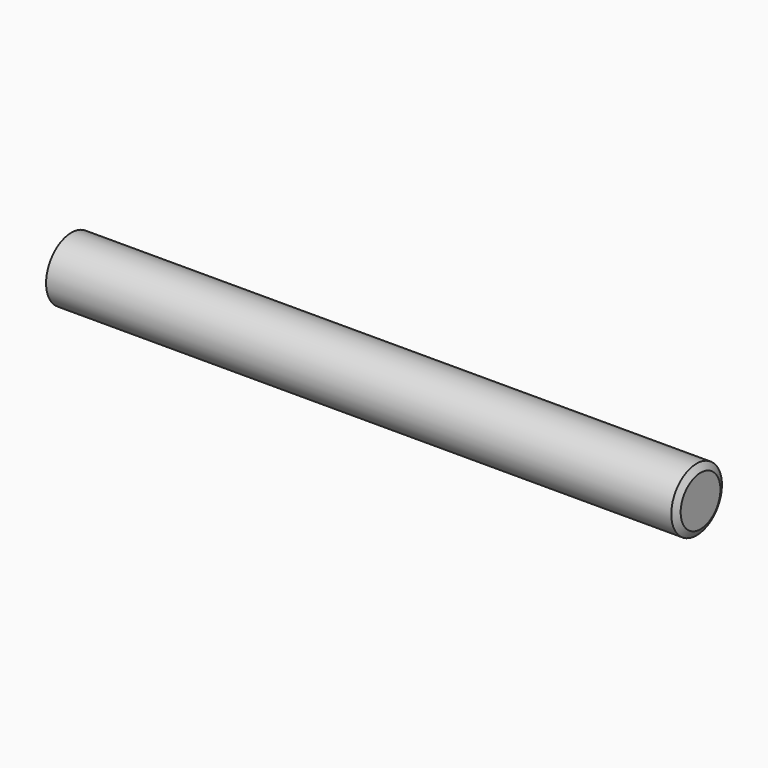
from build123d import *


with BuildPart() as part:
    # Sketch → Revolution (revolve)
    with BuildSketch(Plane.XZ):
        Polygon((0, 0), (0, 1.57), (0.248261, 2), (39.751739, 2), (40, 1.57), (40, 0), align=None)
    revolve(axis=Axis((0, 0, 0), (1, 0, 0)))


solid = part.part
